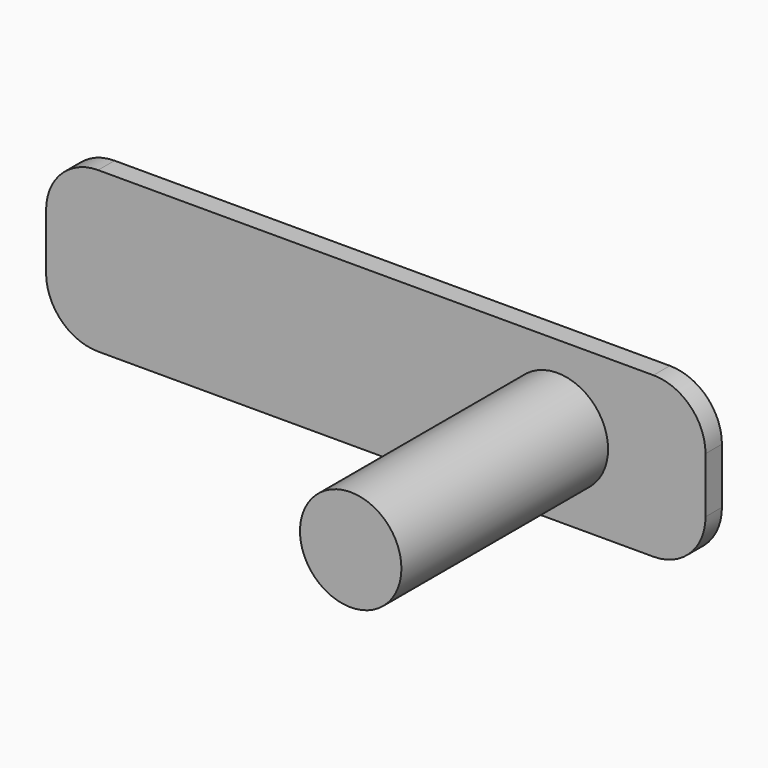
from build123d import *

# Parameters (mm, degrees)
F0_W     = 64.334008
F0_H     = 15.584806
F1_DEPTH = 2
F2_R     = 4.948824
F3_DEPTH = 25.2024
F4_R     = 5.08


with BuildPart() as f1:
    # F0 (on Front) → F1 (new body)
    with BuildSketch(Plane.XZ):
        Rectangle(F0_W, F0_H)
    extrude(amount=F1_DEPTH)

    # F2 (on face) → F3 (join)
    with BuildSketch(Plane.XZ.offset(2)):
        with Locations((17.712619, 0)):
            Circle(F2_R)
    extrude(amount=F3_DEPTH)

    # F4
    f4_edges = [f1.edges().sort_by_distance(p)[0] for p in [
        (-32.167004, -1, -7.792403),
        (-32.167004, -1, 7.792403),
        (32.167004, -1, -7.792403),
        (32.167004, -1, 7.792403),
    ]]
    fillet(f4_edges, radius=F4_R)


solid = f1.part
